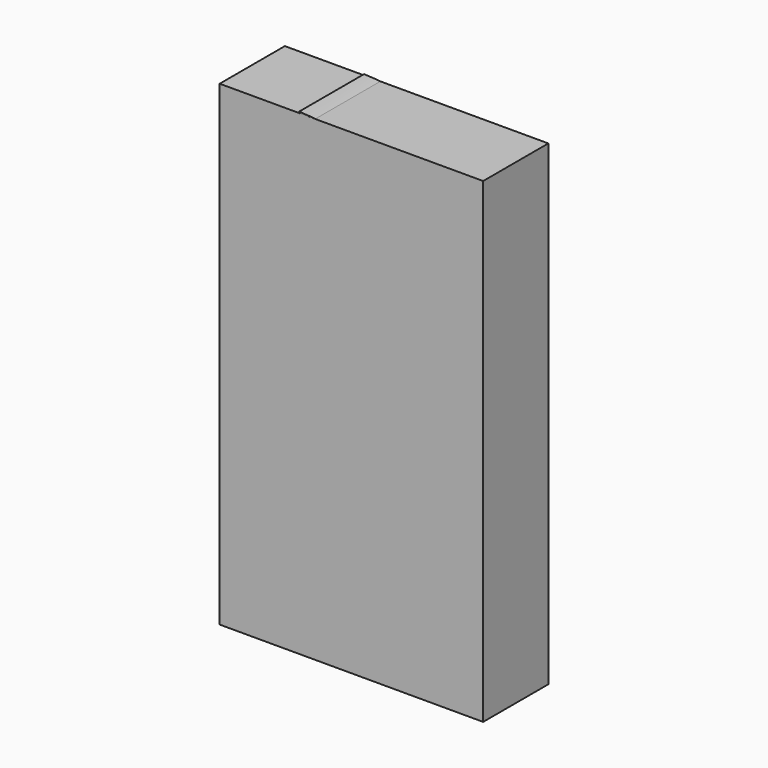
from build123d import *

# Parameters (mm, degrees)
F1_DEPTH = 25.4
F2_W     = 25.4842
F2_H     = 148.970514
F3_DEPTH = 82.426809


with BuildPart() as f1:
    # F0 (on Front) → F1 (new body)
    with BuildSketch(Plane.XZ):
        with BuildLine():
            Line((-57.591952, 74.869528), (-57.591952, 0.677362))
            ThreePointArc((-57.591952, 0.677362), (-20.495869, 37.773445), (-57.591952, 74.869528))
        make_face()
        with BuildLine():
            Line((-57.591952, 0.677362), (-57.591952, -74.191973))
            ThreePointArc((-57.591952, -74.191973), (-20.157285, -36.757305), (-57.591952, 0.677362))
        make_face()
    extrude(amount=F1_DEPTH)


with BuildPart() as f3:
    # F2 (on Right) → F3 (new body)
    with BuildSketch(Plane.YZ):
        with Locations((-12.675086, 0)):
            Rectangle(F2_W, F2_H)
    extrude(amount=-F3_DEPTH)


solid = Compound([f1.part, f3.part])
